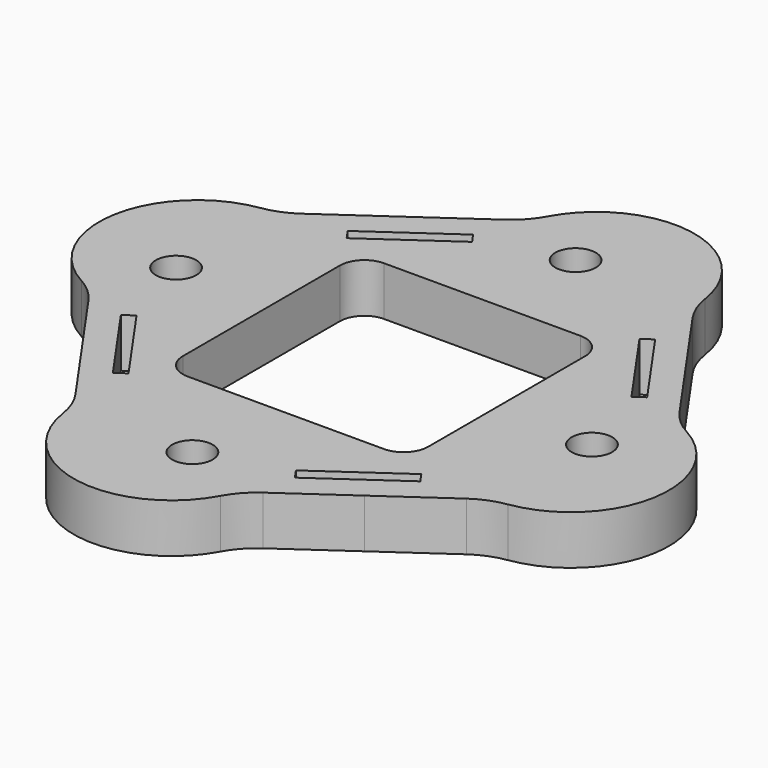
from build123d import *

# Parameters (mm, degrees)
PAD009_DEPTH          = 4
POLARPATTERN003_COUNT = 4
SKETCH018_R           = 1.65
HOLE003_DEPTH         = 25
POCKET006_DEPTH       = 149.7520027338
POLARPATTERN001_COUNT = 4
SKETCH024_W           = 20
SKETCH024_H           = 20
POCKET007_DEPTH       = 4.001
FILLET_R              = 2


with BuildPart() as part:
    # Sketch → Pad009 (new body)
    with BuildSketch(Plane.XY):
        with BuildLine():
            ThreePointArc((18.9209111487, -11.036007045), (25.6050015783, -4.5148526193), (21.5543772962, 3.8991216402))
            ThreePointArc((19.510343337, 5.7262546507), (20.4266011455, 4.694374188), (21.5543772962, 3.8991216402))
            Line((19.510343337, 5.7262546507), (15.7820965007, 11.0507429386))
            Line((0, 0), (15.7820965007, 11.0507429386))
            Line((0, 0), (11.0507429386, -15.7820965007))
            Line((11.0507429386, -15.7820965007), (16.3752312264, -12.0538496644))
            ThreePointArc((18.9209111487, -11.036007045), (17.5891558316, -11.3975778351), (16.3752312264, -12.0538496644))
        make_face()
    pad009 = extrude(amount=-PAD009_DEPTH)

    # PolarPattern003: Pad009 ×4 about axis
    polarpattern003_axis = Axis((0, 0, 0), (0, 0, 1))
    for i in range(1, POLARPATTERN003_COUNT):
        add(pad009.rotate(polarpattern003_axis, i * 360 / POLARPATTERN003_COUNT))

    # Sketch018 → Hole003 (cut)
    with BuildSketch(Plane.XY.offset(8)):
        with Locations((1.2556165274, 17.9561529047)):
            Circle(SKETCH018_R)
        with Locations((-1.2556165274, -17.9561529047)):
            Circle(SKETCH018_R)
        with Locations((-17.9561529047, 1.2556165274)):
            Circle(SKETCH018_R)
        with Locations((17.9561529047, -1.2556165274)):
            Circle(SKETCH018_R)
    extrude(amount=-HOLE003_DEPTH, mode=Mode.SUBTRACT)

    # Sketch021 → Pocket006 (cut, through all)
    with BuildSketch(Plane.XY):
        Polygon((11.2159688683, 12.0143126733), (12.0351209126, 12.5878891096), (16.6237324034, 6.0346727553), (15.8045803591, 5.461096319), align=None)
    pocket006 = extrude(amount=-POCKET006_DEPTH, mode=Mode.SUBTRACT)

    # PolarPattern001: Pocket006 ×4 about axis
    polarpattern001_axis = Axis((0, 0, 0), (0, 0, 1))
    for i in range(1, POLARPATTERN001_COUNT):
        add(pocket006.rotate(polarpattern001_axis, i * 360 / POLARPATTERN001_COUNT), mode=Mode.SUBTRACT)

    # Sketch024 → Pocket007 (cut, through all)
    with BuildSketch(Plane.XY):
        Rectangle(SKETCH024_W, SKETCH024_H)
    extrude(amount=-POCKET007_DEPTH, mode=Mode.SUBTRACT)

    # Fillet
    fillet_edges = [part.edges().sort_by_distance(p)[0] for p in [
        (10, -10, -2),
        (-10, -10, -2),
        (-10, 10, -2),
        (10, 10, -2),
    ]]
    fillet(fillet_edges, radius=FILLET_R)


with BuildPart() as part_1:
    # Body004024 placement: moved
    add(part.part.moved(Location((0, 0, -40))))


solid = part_1.part
